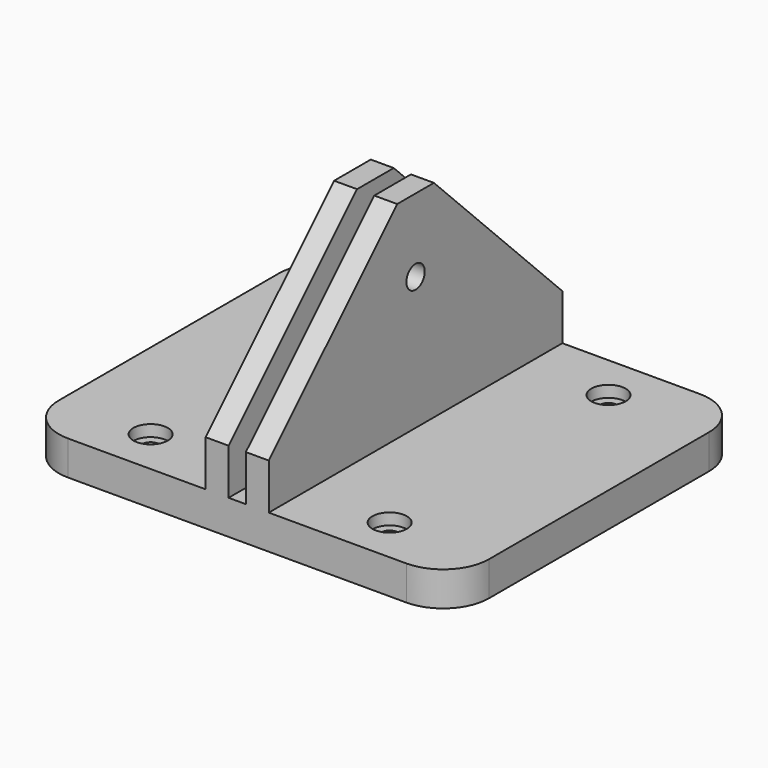
from build123d import *

# Parameters (mm, degrees)
F1_DEPTH       = 101.6
F3_D           = 4.7752
F3_CBORE_D     = 9.525
F3_CBORE_DEPTH = 3.175
F5_D           = 6.35
F6_SIZE        = 44.45
F7_R           = 12.7


with BuildPart() as f1:
    # F0 (on Front) → F1 (new body)
    with BuildSketch(Plane.XZ):
        Polygon((-57.15, 9.525), (-57.15, 0), (61.9252, 0), (61.9252, 9.525), (11.1252, 9.525), (11.1252, 66.675), (4.7752, 66.675), (4.7752, 9.525), (0, 9.525), (0, 66.675), (-6.35, 66.675), (-6.35, 9.525), align=None)
    extrude(amount=F1_DEPTH)

    # F3 (through all)
    with Locations(Plane.XY.offset(9.525)):
        with Locations((34.428105, -88.9), (34.058392, -12.7), (-31.75, -12.7), (-31.75, -88.9)):
            CounterBoreHole(F3_D / 2, F3_CBORE_D / 2, F3_CBORE_DEPTH)

    # F5 (through all)
    with Locations(Plane(origin=(-6.35, 0, 0), x_dir=(0, -1, 0), z_dir=(-1, 0, 0))):
        with Locations((50.8, 46.355)):
            Hole(F5_D / 2)

    # F6
    f6_edges = [f1.edges().sort_by_distance(p)[0] for p in [
        (-3.175, -101.6, 66.675),
        (7.9502, -101.6, 66.675),
        (7.9502, 0, 66.675),
        (-3.175, 0, 66.675),
    ]]
    chamfer(f6_edges, length=F6_SIZE)

    # F7
    f7_edges = [f1.edges().sort_by_distance(p)[0] for p in [
        (-57.15, -101.6, 4.7625),
        (-57.15, 0, 4.7625),
        (61.9252, -101.6, 4.7625),
        (61.9252, 0, 4.7625),
    ]]
    fillet(f7_edges, radius=F7_R)


solid = f1.part
